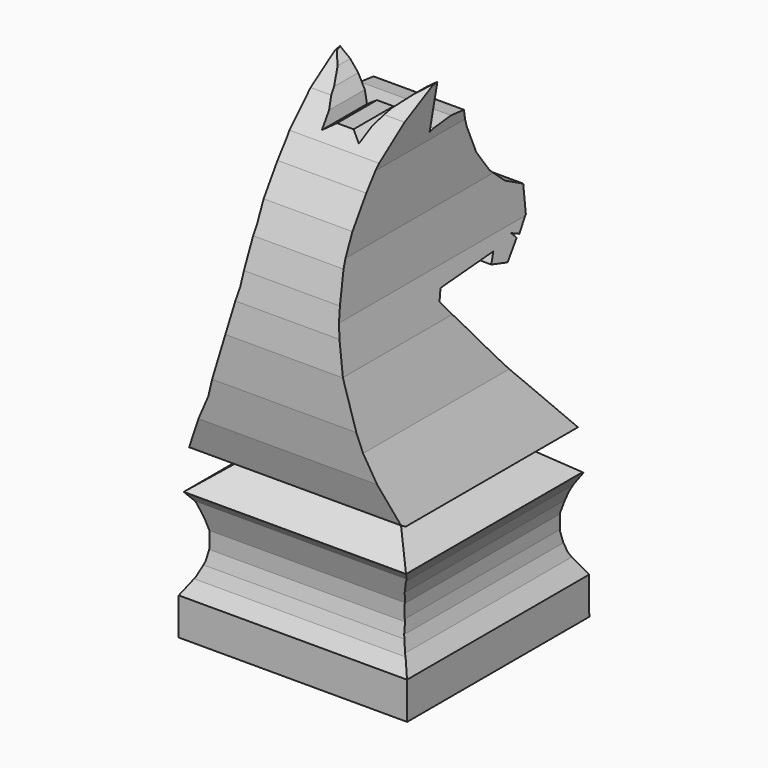
from build123d import *

# Parameters (mm, degrees)
F2_W     = 43.18
F2_H     = 86.36
F3_DEPTH = 21.59
F4_W     = 43.18
F4_H     = 86.36
F5_DEPTH = 43.18
F7_DEPTH = 21.59


with BuildPart() as f3:
    # F2 (on Right) → F3 (new body, symmetric)
    with BuildSketch(Plane.YZ):
        Rectangle(F2_W, F2_H)
    extrude(amount=F3_DEPTH, both=True)

    # F4 (on face) → F5 (cut)
    with BuildSketch(Plane(origin=(0, 21.59, 0), x_dir=(-1, 0, 0), z_dir=(0, 1, 0))):
        Rectangle(F4_W, F4_H)
        Polygon((18.302919, -40.662199), (-18.461943, -40.662199), (-18.438558, -34.686282), (-16.829565, -32.120593), (-16.069479, -30.044995), (-15.809655, -28.096024), (-15.809655, -25.911188), (-16.199389, -24.026766), (-16.846587, -22.005791), (-17.888235, -20.094059), (-13.049044, -16.243285), (-17.206199, -13.921896), (-12.399486, -4.064204), (-9.379052, 5.809045), (-7.917551, 12.629382), (-7.105607, 20.618919), (-7.105607, 30.557126), (-7.950029, 38.806483), (-6.30046, 37.604805), (-4.702249, 36.110826), (-3.533049, 34.194637), (-3.045882, 32.37588), (-1.292081, 33.382691), (1.371098, 33.382691), (2.897554, 32.37588), (3.384721, 34.194637), (4.5864, 36.110826), (5.982945, 37.604805), (7.736745, 38.806483), (7.184624, 30.557126), (7.184624, 20.618919), (7.964091, 12.629382), (9.523025, 5.809045), (12.510981, -4.064204), (17.273372, -13.921896), (13.01294, -16.243285), (17.901512, -20.094059), (16.727163, -22.005791), (15.989779, -24.026766), (15.607432, -25.911188), (15.607432, -28.096024), (15.889227, -30.044995), (16.763162, -32.120593), (18.302919, -34.686282), align=None, mode=Mode.SUBTRACT)
    extrude(amount=-F5_DEPTH, mode=Mode.SUBTRACT)

    # F6 (on Right) → F7 (cut, symmetric)
    with BuildSketch(Plane.YZ):
        Polygon((18.948087, -40.815897), (22.037912, -40.815897), (22.175604, 40.474616), (-21.876609, 40.474616), (-21.876609, -40.680926), (-17.684452, -40.680926), (-17.684452, -34.686282), (-16.250653, -32.487791), (-15.455558, -30.56524), (-14.857819, -28.473156), (-14.857819, -25.76942), (-16.058451, -21.550797), (-17.192863, -20.088844), (-12.195049, -16.210757), (-17.110933, -13.534333), (-18.558385, -8.031274), (-19.268457, -1.271935), (-19.268457, 5.774164), (-18.653972, 10.635425), (-17.757623, 14.789965), (-16.455481, 19.347463), (-14.502783, 23.826377), (-11.717116, 28.127776), (-9.24552, 31.391378), (-4.643708, 35.474289), (0.57259, 38.628653), (1.528456, 38.765203), (0.873005, 31.732757), (1.719629, 31.964898), (5.078816, 32.38821), (7.72793, 32.101449), (8.465313, 29.43868), (10.418011, 24.932453), (13.094435, 21.300161), (15.962034, 18.719323), (19.389497, 16.971454), (19.389497, 12.779298), (17.573351, 10.853911), (16.073769, 11.526532), (16.980739, 10.580613), (14.528235, 8.229095), (11.469464, 9.103029), (12.275122, 10.550483), (1.446525, 9.813101), (0.833981, 8.242985), (3.885183, 4.380703), (8.519922, -1.683081), (12.478762, -6.626802), (18.445989, -14.177564), (13.676071, -16.514244), (18.697038, -20.395836), (17.248681, -22.751831), (16.360357, -25.687164), (16.360357, -28.410073), (17.036257, -31.364718), (18.948087, -34.686282), align=None)
    extrude(amount=F7_DEPTH, both=True, mode=Mode.SUBTRACT)


solid = f3.part
